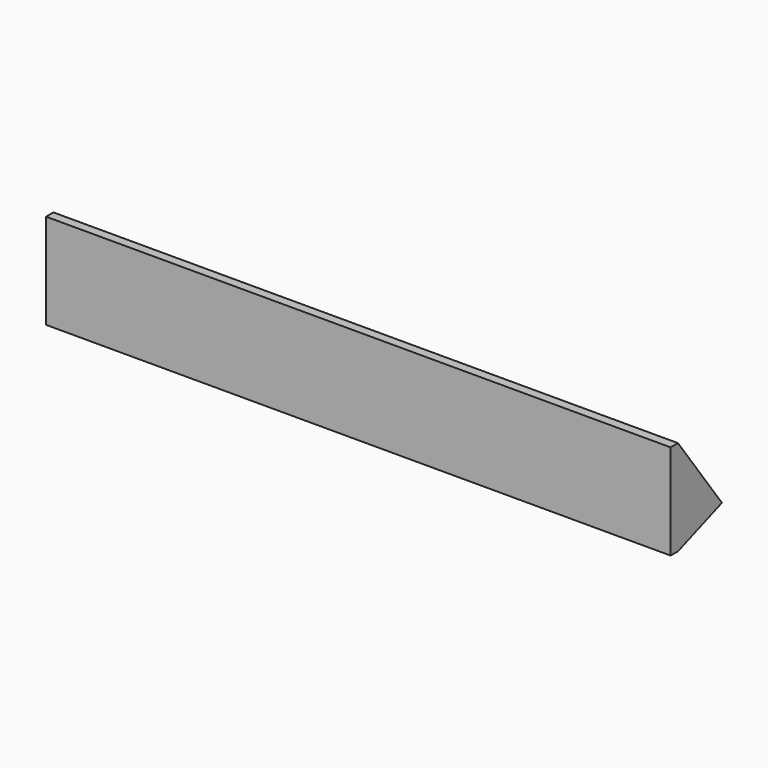
from build123d import *

# Parameters (mm, degrees)
F0_W     = 203.2
F0_H     = 31
F1_DEPTH = 3
F3_DEPTH = 203.2
F4_T     = -2.54


with BuildPart() as f1:
    # F0 (on Front) → F1 (new body)
    with BuildSketch(Plane.XZ):
        with Locations((-101.6, 15.5)):
            Rectangle(F0_W, F0_H)
    extrude(amount=F1_DEPTH)

    # F2 (on face) → F3 (join)
    with BuildSketch(Plane.YZ):
        Polygon((0, 31), (0, 0), (17.857041, 6.635404), align=None)
    extrude(amount=-F3_DEPTH)

    # F4
    f4_openings = [f1.faces().sort_by_distance(p)[0] for p in [
        (-101.6, 8.928521, 18.817702),
    ]]
    offset(amount=F4_T, openings=f4_openings)


solid = f1.part
